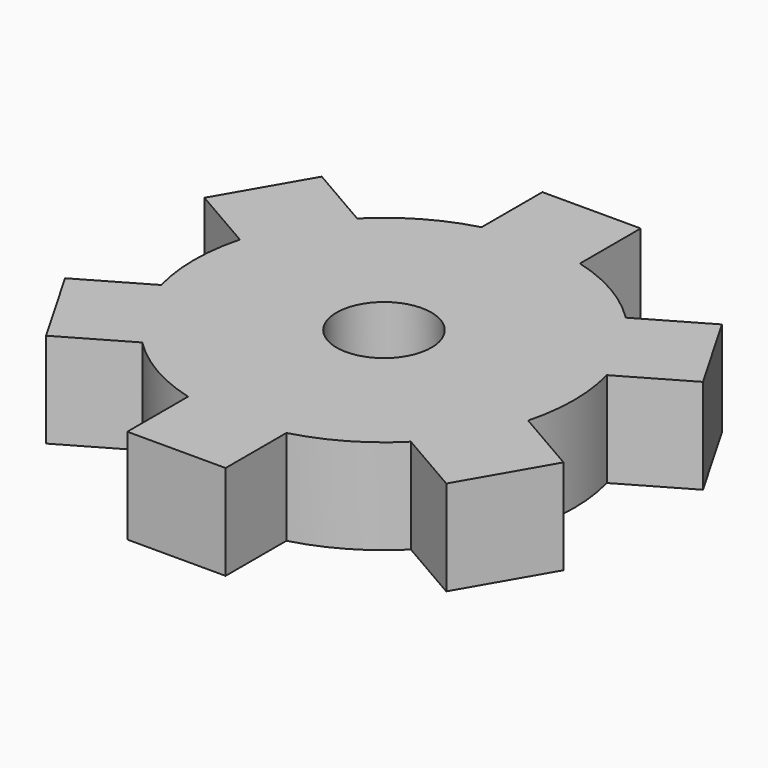
from build123d import *

# Parameters (mm, degrees)
F0_R     = 25.4
F1_DEPTH = 12.7
F3_DEPTH = 12.7
F5_COUNT = 6
F6_R     = 6.35
F7_DEPTH = 12.7


with BuildPart() as f1:
    # F0 (on Top) → F1 (new body)
    with BuildSketch(Plane.XY):
        Circle(F0_R)
    extrude(amount=F1_DEPTH)

    # F2 (on face) → F3 (join)
    with BuildSketch(Plane.XY.offset(12.7)):
        with BuildLine():
            Line((6.574004, -34.694516), (6.574004, -24.534516))
            ThreePointArc((6.574004, -24.534516), (0, -25.4), (-6.574004, -24.534516))
            Line((-6.574004, -24.534516), (-6.574004, -34.694516))
            Line((-6.574004, -34.694516), (6.574004, -34.694516))
        make_face()
    extrude(amount=-F3_DEPTH)

    # F5: F1 ×6 about axis
    f5_axis = Axis((0, 0, -30.128863), (0, 0, -1))


with BuildPart() as f1_1:
    add(f1.part)
    for i in range(1, F5_COUNT):
        add(f1.part.rotate(f5_axis, i * 360 / F5_COUNT))

    # F6 (on face) → F7 (cut)
    with BuildSketch(Plane.XY.offset(12.7)):
        Circle(F6_R)
    extrude(amount=-F7_DEPTH, mode=Mode.SUBTRACT)


solid = f1_1.part
